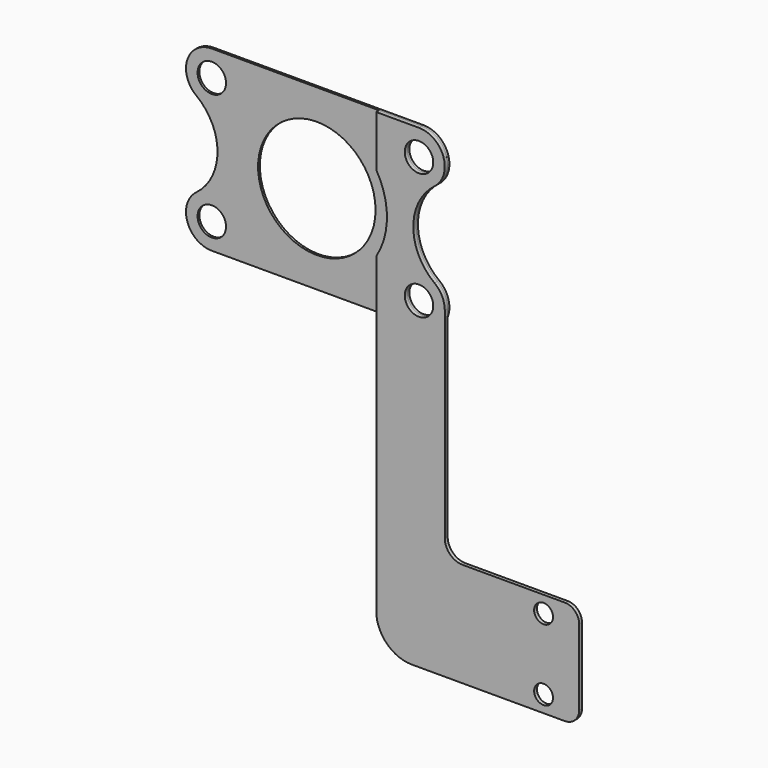
from build123d import *

# Parameters (mm, degrees)
F0_R     = 5.08
F0_R_2   = 20.955
F1_DEPTH = 0.79375
F2_R     = 3.3655
F2_R_2   = 5.08
F3_DEPTH = 1.27
F4_R     = 5.08


with BuildPart() as f1:
    # F0 (on Front) → F1 (new body)
    with BuildSketch(Plane.XZ):
        with BuildLine():
            Line((37.465, 31.75), (-37.465, 31.75))
            ThreePointArc((-37.465, 31.75), (-43.975686, 29.053186), (-46.6725, 22.5425))
            ThreePointArc((-46.6725, 22.5425), (-45.705075, 18.434068), (-43.006095, 15.188975))
            ThreePointArc((-43.006095, 15.188975), (-35.433, 0), (-43.006095, -15.188975))
            ThreePointArc((-43.006095, -15.188975), (-45.705075, -18.434068), (-46.6725, -22.5425))
            ThreePointArc((-46.6725, -22.5425), (-43.975686, -29.053186), (-37.465, -31.75))
            Line((-37.465, -31.75), (37.465, -31.75))
            ThreePointArc((37.465, -31.75), (43.975686, -29.053186), (46.6725, -22.5425))
            ThreePointArc((46.6725, -22.5425), (45.705075, -18.434068), (43.006095, -15.188975))
            ThreePointArc((43.006095, -15.188975), (35.433, 0), (43.006095, 15.188975))
            ThreePointArc((43.006095, 15.188975), (45.705075, 18.434068), (46.6725, 22.5425))
            ThreePointArc((46.6725, 22.5425), (43.975686, 29.053186), (37.465, 31.75))
        make_face()
        with Locations((-37.465, -22.5425)):
            Circle(F0_R, mode=Mode.SUBTRACT)
        with Locations((37.465, -22.5425)):
            Circle(F0_R, mode=Mode.SUBTRACT)
        Circle(F0_R_2, mode=Mode.SUBTRACT)
        with Locations((-37.465, 22.5425)):
            Circle(F0_R, mode=Mode.SUBTRACT)
        with Locations((37.465, 22.5425)):
            Circle(F0_R, mode=Mode.SUBTRACT)
    extrude(amount=F1_DEPTH)


with BuildPart() as f3:
    # F2 (on face) → F3 (new body)
    with BuildSketch(Plane.XZ.offset(0.79375)):
        with BuildLine():
            ThreePointArc((43.006095, -15.188975), (35.433, 0), (43.006095, 15.188975))
            ThreePointArc((43.006095, 15.188975), (46.196713, 25.464013), (37.465, 31.75))
            Line((37.465, 31.75), (22.225, 31.75))
            Line((22.225, 31.75), (22.225, 13.559889))
            ThreePointArc((22.225, 13.559889), (26.035, 0), (22.225, -13.559889))
            Line((22.225, -13.559889), (22.225, -124.968))
            ThreePointArc((22.225, -124.968), (25.944744, -133.948256), (34.925, -137.668))
            Line((34.925, -137.668), (94.615, -137.668))
            Line((94.615, -137.668), (94.615, -100.457))
            Line((94.615, -100.457), (53.0225, -100.457))
            ThreePointArc((53.0225, -100.457), (48.532372, -98.597128), (46.6725, -94.107))
            Line((46.6725, -94.107), (46.6725, -22.5425))
            ThreePointArc((46.6725, -22.5425), (45.705075, -18.434068), (43.006095, -15.188975))
        make_face()
        with Locations((81.915, -131.7625)):
            Circle(F2_R, mode=Mode.SUBTRACT)
        with Locations((81.915, -106.3625)):
            Circle(F2_R, mode=Mode.SUBTRACT)
        with Locations((37.465, -22.5425)):
            Circle(F2_R_2, mode=Mode.SUBTRACT)
        with Locations((37.465, 22.5425)):
            Circle(F2_R_2, mode=Mode.SUBTRACT)
    extrude(amount=F3_DEPTH)

    # F4
    f4_edges = [f3.edges().sort_by_distance(p)[0] for p in [
        (94.615, -1.42875, -100.457),
        (94.615, -1.42875, -137.668),
    ]]
    fillet(f4_edges, radius=F4_R)


solid = Compound([f1.part, f3.part])
